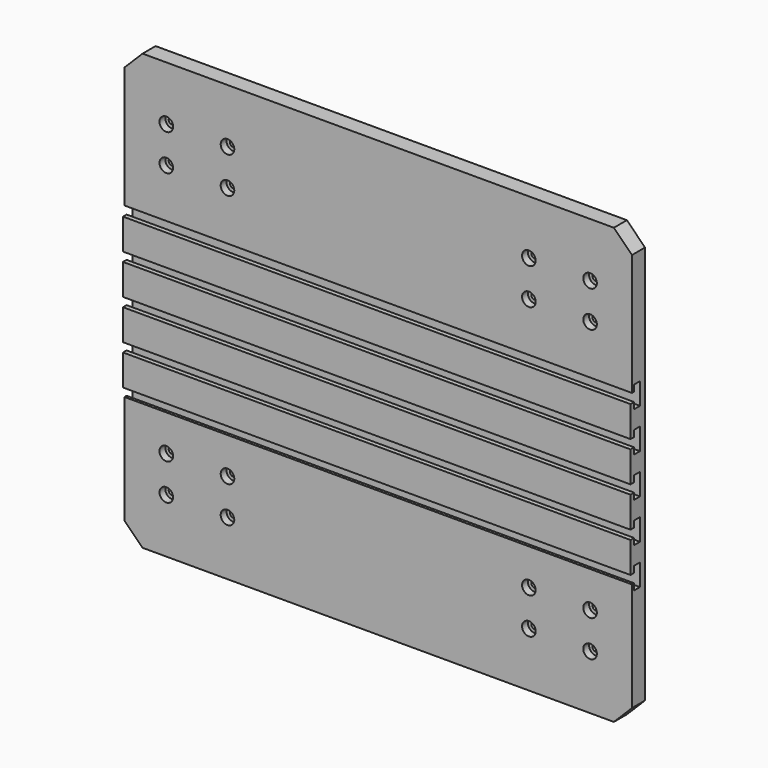
from build123d import *

# Parameters (mm, degrees)
F0_W           = 355.6
F0_H           = 304.8
F1_DEPTH       = 12.7
F3_D           = 4.7752
F3_CBORE_D     = 9.525
F3_CBORE_DEPTH = 6.35
F5_DEPTH       = 355.601
F6_W           = 355.6
F6_H           = 97.79
F6_R           = 4.7625
F7_DEPTH       = 1.27
F8_W           = 355.6
F8_H           = 88.9
F8_R           = 4.7625
F9_DEPTH       = 1.27
F11_D          = 6.35
F11_DEPTH      = 6.35
F11_TIP        = 1.9077324654
F12_SIZE       = 12.7


with BuildPart() as f1:
    # F0 (on Front) → F1 (new body)
    with BuildSketch(Plane.XZ):
        with Locations((177.8, 152.4)):
            Rectangle(F0_W, F0_H)
    extrude(amount=F1_DEPTH)

    # F3 (through all)
    with Locations(Plane.XZ.offset(12.7)):
        with Locations((29.337, 266.7), (29.337, 241.3), (72.2122, 241.3), (72.2122, 266.7), (29.337, 63.5), (29.337, 38.1), (72.2122, 38.1), (72.2122, 63.5), (283.3624, 63.5), (283.3624, 38.1), (326.2376, 38.1), (326.2376, 63.5), (326.2376, 241.3), (283.3624, 241.3), (283.3624, 266.7), (326.2376, 266.7)):
            CounterBoreHole(F3_D / 2, F3_CBORE_D / 2, F3_CBORE_DEPTH)

    # F4 (on face) → F5 (cut, through all)
    with BuildSketch(Plane.YZ.offset(355.6)):
        Polygon((-9.525, 207.01), (-12.7, 207.01), (-12.7, 200.66), (-9.525, 200.66), (-9.525, 196.215), (-4.445, 196.215), (-4.445, 211.455), (-9.525, 211.455), align=None)
        Polygon((-12.7, 179.07), (-12.7, 172.72), (-9.525, 172.72), (-9.525, 168.275), (-4.445, 168.275), (-4.445, 183.515), (-9.525, 183.515), (-9.525, 179.07), align=None)
        Polygon((-12.7, 151.13), (-12.7, 144.78), (-9.525, 144.78), (-9.525, 140.335), (-4.445, 140.335), (-4.445, 155.575), (-9.525, 155.575), (-9.525, 151.13), align=None)
        Polygon((-12.7, 123.19), (-12.7, 116.8669015169), (-9.525, 116.84), (-9.525, 112.395), (-4.445, 112.395), (-4.445, 127.635), (-9.525, 127.635), (-9.525, 123.19), align=None)
        Polygon((-12.7, 95.25), (-12.7, 88.9), (-9.5218634233, 88.9), (-9.5218634233, 84.455), (-4.445, 84.455), (-4.445, 99.695), (-9.525, 99.695), (-9.525, 95.25), align=None)
    extrude(amount=-F5_DEPTH, mode=Mode.SUBTRACT)

    # F6 (on face) → F7 (cut)
    with BuildSketch(Plane.XZ.offset(12.7)):
        with Locations((177.8, 255.905)):
            Rectangle(F6_W, F6_H)
        with Locations((29.337, 241.3)):
            Circle(F6_R, mode=Mode.SUBTRACT)
        with Locations((72.2122, 241.3)):
            Circle(F6_R, mode=Mode.SUBTRACT)
        with Locations((283.3624, 241.3)):
            Circle(F6_R, mode=Mode.SUBTRACT)
        with Locations((326.2376, 241.3)):
            Circle(F6_R, mode=Mode.SUBTRACT)
        with Locations((29.337, 266.7)):
            Circle(F6_R, mode=Mode.SUBTRACT)
        with Locations((72.2122, 266.7)):
            Circle(F6_R, mode=Mode.SUBTRACT)
        with Locations((283.3624, 266.7)):
            Circle(F6_R, mode=Mode.SUBTRACT)
        with Locations((326.2376, 266.7)):
            Circle(F6_R, mode=Mode.SUBTRACT)
    extrude(amount=-F7_DEPTH, mode=Mode.SUBTRACT)

    # F8 (on face) → F9 (cut)
    with BuildSketch(Plane.XZ.offset(12.7)):
        with Locations((177.8, 44.45)):
            Rectangle(F8_W, F8_H)
        with Locations((29.337, 38.1)):
            Circle(F8_R, mode=Mode.SUBTRACT)
        with Locations((72.2122, 38.1)):
            Circle(F8_R, mode=Mode.SUBTRACT)
        with Locations((283.3624, 38.1)):
            Circle(F8_R, mode=Mode.SUBTRACT)
        with Locations((326.2376, 38.1)):
            Circle(F8_R, mode=Mode.SUBTRACT)
        with Locations((29.337, 63.5)):
            Circle(F8_R, mode=Mode.SUBTRACT)
        with Locations((72.2122, 63.5)):
            Circle(F8_R, mode=Mode.SUBTRACT)
        with Locations((283.3624, 63.5)):
            Circle(F8_R, mode=Mode.SUBTRACT)
        with Locations((326.2376, 63.5)):
            Circle(F8_R, mode=Mode.SUBTRACT)
    extrude(amount=-F9_DEPTH, mode=Mode.SUBTRACT)

    # F11
    with Locations(Plane(origin=(0, 0, 0), x_dir=(-1, 0, 0), z_dir=(0, 1, 0))):
        with Locations((-215.9, 101.6), (-215.9, 33.401), (-139.7, 33.401), (-139.7, 101.6)):
            Hole(F11_D / 2, depth=F11_DEPTH)
            with Locations((0, 0, -(F11_DEPTH + F11_TIP / 2))):  # 118° drill point
                Cone(0, F11_D / 2, F11_TIP, mode=Mode.SUBTRACT)

    # F12
    f12_edges = [f1.edges().sort_by_distance(p)[0] for p in [
        (355.6, -5.715, 304.8),
        (355.6, -5.715, 0),
        (0, -5.715, 304.8),
        (0, -5.715, 0),
    ]]
    chamfer(f12_edges, length=F12_SIZE)


solid = f1.part
